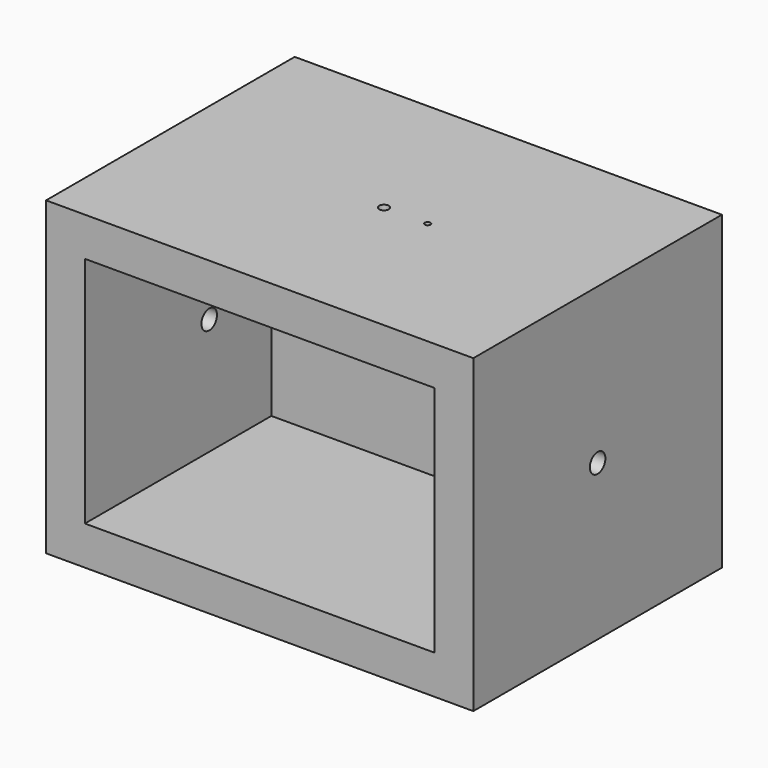
from build123d import *

# Parameters (mm, degrees)
F0_W      = 279.4
F0_H      = 203.2
F1_DEPTH  = 203.2
F5_W      = 228.6
F5_H      = 152.4
F6_DEPTH  = 152.4
F2_R      = 3.175
F2_R_2    = 1.8288
F7_DEPTH  = 25.4
F3_R      = 6.35
F8_DEPTH  = 25.4
F4_R      = 6.35
F9_DEPTH  = 25.4
F10_R     = 6.35
F11_DEPTH = 254


with BuildPart() as f1:
    # F0 (on Front) → F1 (new body)
    with BuildSketch(Plane.XZ):
        Rectangle(F0_W, F0_H)
    extrude(amount=-F1_DEPTH)

    # F5 (on Front) → F6 (cut)
    with BuildSketch(Plane.XZ):
        Rectangle(F5_W, F5_H)
    extrude(amount=-F6_DEPTH, mode=Mode.SUBTRACT)

    # F2 (on face) → F7 (cut)
    with BuildSketch(Plane.XY.offset(101.6)):
        with Locations((0, 101.6)):
            Circle(F2_R)
        with Locations((28.575, 101.6)):
            Circle(F2_R_2)
    extrude(amount=-F7_DEPTH, mode=Mode.SUBTRACT)

    # F3 (on face) → F8 (cut)
    with BuildSketch(Plane.YZ.offset(139.7)):
        with Locations((101.6, 0)):
            Circle(F3_R)
    extrude(amount=-F8_DEPTH, mode=Mode.SUBTRACT)

    # F4 (on face) → F9 (cut)
    with BuildSketch(Plane(origin=(-139.7, 0, 0), x_dir=(0, -1, 0), z_dir=(-1, 0, 0))):
        with Locations((-101.6, 0)):
            Circle(F4_R)
    extrude(amount=-F9_DEPTH, mode=Mode.SUBTRACT)

    # F10 (on Front) → F11 (cut)
    with BuildSketch(Plane.XZ):
        with Locations((62.176916, 0)):
            Circle(F10_R)
    extrude(amount=-F11_DEPTH, mode=Mode.SUBTRACT)


solid = f1.part
